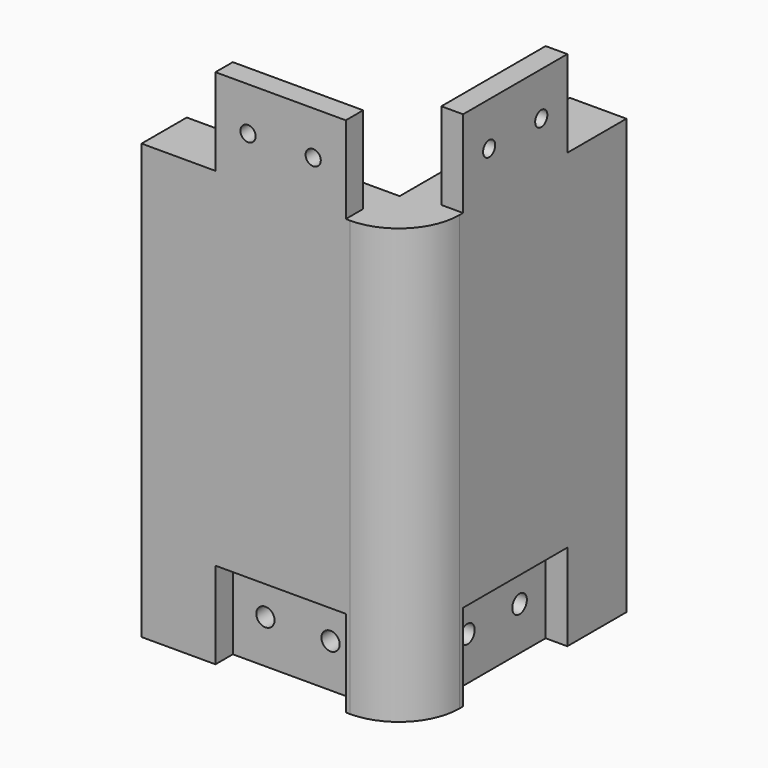
from build123d import *

# Parameters (mm, degrees)
SKETCH_W          = 62
SKETCH_H          = 62
PAD_DEPTH         = 100
SKETCH001_W       = 30
SKETCH001_H       = 5
SKETCH001_W_2     = 5
SKETCH001_H_2     = 30
PAD001_DEPTH      = 20
FILLET_R          = 14
SKETCH002_W       = 52
SKETCH002_H       = 52
POCKET_DEPTH      = 103
SKETCH003_R       = 1.75
POCKET001_DEPTH   = 5
SKETCH004_R       = 1.75
POCKET002_DEPTH   = 5
POCKET002_FACE8_W = 52
POCKET002_FACE8_H = 100
PAD002_DEPTH      = 2
PAD002_FACE8_W    = 50
PAD002_FACE8_H    = 100
PAD003_DEPTH      = 2
PAD003_FACE25_W   = 50
PAD003_FACE25_H   = 100
PAD004_DEPTH      = 1
PAD004_FACE24_W   = 49
PAD004_FACE24_H   = 100
PAD005_DEPTH      = 1
SKETCH005_R       = 2.1
POCKET003_DEPTH   = 6
SKETCH006_R       = 2.1
POCKET004_DEPTH   = 6
SKETCH007_W       = 30
SKETCH007_H       = 20
POCKET005_DEPTH   = 5
SKETCH008_W       = 30
SKETCH008_H       = 20
POCKET006_DEPTH   = 5
SKETCH009_R       = 2.1
POCKET007_DEPTH   = 6
SKETCH010_R       = 2.1
POCKET008_DEPTH   = 6


with BuildPart() as part:
    # Sketch → Pad (new body)
    with BuildSketch(Plane.XY):
        with Locations((31, 31)):
            Rectangle(SKETCH_W, SKETCH_H)
    extrude(amount=PAD_DEPTH)

    # Sketch001 (on Face6 of Pad) → Pad001 (join)
    with BuildSketch(Plane.XY.offset(100)):
        with Locations((32, 2.5)):
            Rectangle(SKETCH001_W, SKETCH001_H)
        with Locations((59.5, 30)):
            Rectangle(SKETCH001_W_2, SKETCH001_H_2)
    extrude(amount=PAD001_DEPTH)

    # Fillet
    fillet_edges = [part.edges().sort_by_distance(p)[0] for p in [
        (62, 0, 50),
    ]]
    fillet(fillet_edges, radius=FILLET_R)

    # Sketch002 (on Face5 of Fillet) → Pocket (cut)
    with BuildSketch(Plane.XY.offset(100)):
        with Locations((26, 36)):
            Rectangle(SKETCH002_W, SKETCH002_H)
    extrude(amount=-POCKET_DEPTH, mode=Mode.SUBTRACT)

    # Sketch003 (on Face15 of Pocket) → Pocket001 (cut)
    with BuildSketch(Plane(origin=(57, 0, 0), x_dir=(0, -1, 0), z_dir=(-1, 0, 0))):
        with Locations((-37.5, 110)):
            Circle(SKETCH003_R)
        with Locations((-22.5, 110)):
            Circle(SKETCH003_R)
    extrude(amount=-POCKET001_DEPTH, mode=Mode.SUBTRACT)

    # Sketch004 (on Face12 of Pocket001) → Pocket002 (cut)
    with BuildSketch(Plane(origin=(0, 5, 0), x_dir=(-1, 0, 0), z_dir=(0, 1, 0))):
        with Locations((-39.5, 110)):
            Circle(SKETCH004_R)
        with Locations((-24.5, 110)):
            Circle(SKETCH004_R)
    extrude(amount=-POCKET002_DEPTH, mode=Mode.SUBTRACT)

    # Pocket002 Face8 → Pad002 (add)
    with BuildSketch(Plane(origin=(52, 36, 50), x_dir=(0, 1, 0), z_dir=(-1, 0, 0))):
        Rectangle(POCKET002_FACE8_W, POCKET002_FACE8_H)
    extrude(amount=PAD002_DEPTH)

    # Pad002 Face8 → Pad003 (add)
    with BuildSketch(Plane(origin=(25, 10, 50), x_dir=(1, 0, 0), z_dir=(0, 1, 0))):
        Rectangle(PAD002_FACE8_W, PAD002_FACE8_H)
    extrude(amount=PAD003_DEPTH)

    # Pad003 Face25 → Pad004 (add)
    with BuildSketch(Plane(origin=(25, 12, 50), x_dir=(1, 0, 0), z_dir=(0, 1, 0))):
        Rectangle(PAD003_FACE25_W, PAD003_FACE25_H)
    extrude(amount=PAD004_DEPTH)

    # Pad004 Face24 → Pad005 (add)
    with BuildSketch(Plane(origin=(50, 37.5, 50), x_dir=(0, 1, 0), z_dir=(-1, 0, 0))):
        Rectangle(PAD004_FACE24_W, PAD004_FACE24_H)
    extrude(amount=PAD005_DEPTH)

    # Sketch005 (on Face4 of Pad005) → Pocket003 (cut)
    with BuildSketch(Plane(origin=(0, 0, 0), x_dir=(0, -1, 0), z_dir=(-1, 0, 0))):
        with Locations((-7, 80)):
            Circle(SKETCH005_R)
        with Locations((-7, 20)):
            Circle(SKETCH005_R)
    extrude(amount=-POCKET003_DEPTH, mode=Mode.SUBTRACT)

    # Sketch006 (on Face9 of Pocket003) → Pocket004 (cut)
    with BuildSketch(Plane(origin=(0, 62, 0), x_dir=(-1, 0, 0), z_dir=(0, 1, 0))):
        with Locations((-55, 80)):
            Circle(SKETCH006_R)
        with Locations((-55, 20)):
            Circle(SKETCH006_R)
    extrude(amount=-POCKET004_DEPTH, mode=Mode.SUBTRACT)

    # Sketch007 (on Face10 of Pocket004) → Pocket005 (cut)
    with BuildSketch(Plane.YZ.offset(62)):
        with Locations((30, 10)):
            Rectangle(SKETCH007_W, SKETCH007_H)
    extrude(amount=-POCKET005_DEPTH, mode=Mode.SUBTRACT)

    # Sketch008 (on Face1 of Pocket005) → Pocket006 (cut)
    with BuildSketch(Plane.XZ):
        with Locations((32, 10)):
            Rectangle(SKETCH008_W, SKETCH008_H)
    extrude(amount=-POCKET006_DEPTH, mode=Mode.SUBTRACT)

    # Sketch009 (on Face15 of Pocket006) → Pocket007 (cut)
    with BuildSketch(Plane.YZ.offset(57)):
        with Locations((37.5, 10)):
            Circle(SKETCH009_R)
        with Locations((22.5, 10)):
            Circle(SKETCH009_R)
    extrude(amount=-POCKET007_DEPTH, mode=Mode.SUBTRACT)

    # Sketch010 (on Face17 of Pocket007) → Pocket008 (cut)
    with BuildSketch(Plane.XZ.offset(-5)):
        with Locations((39.5, 10)):
            Circle(SKETCH010_R)
        with Locations((24.5, 10)):
            Circle(SKETCH010_R)
    extrude(amount=-POCKET008_DEPTH, mode=Mode.SUBTRACT)


solid = part.part
